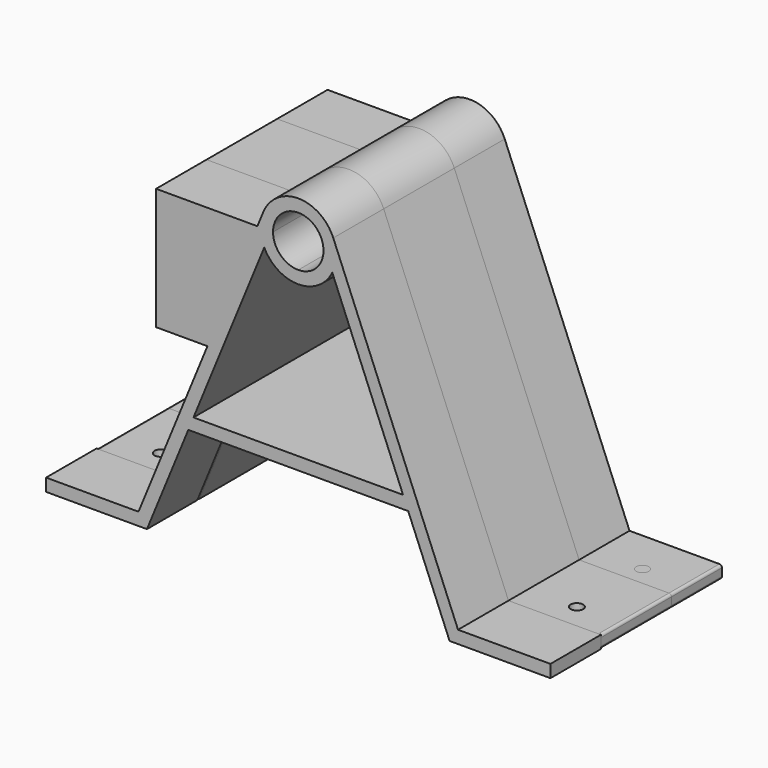
from build123d import *

# Parameters (mm, degrees)
F1_DEPTH   = 60
F2_R       = 2.5
F3_DEPTH   = 5.001
F4_R       = 1
F1_FACE1_R = 10
F5_DEPTH   = 25


with BuildPart() as f1:
    # F0 (on Front) → F1 (new body)
    with BuildSketch(Plane.XZ):
        with BuildLine():
            Line((69.3844701811, 66.6805505753), (86.5065387851, 108.4481678561))
            ThreePointArc((86.5065387851, 108.4481678561), (92.0400214246, 102.28627745), (100, 100))
            Line((100, 100), (100, 105))
            ThreePointArc((100, 105), (92.9289321881, 107.9289321881), (90, 115))
            Line((90, 115), (83.7885603577, 115))
            Line((83.7885603577, 115), (63.980656967, 66.6805505753))
            Line((63.980656967, 66.6805505753), (69.3844701811, 66.6805505753))
        make_face()
        with BuildLine():
            Line((100, 105), (100, 100))
            ThreePointArc((100, 100), (107.9599785754, 102.28627745), (113.4934612149, 108.4481678561))
            Line((113.4934612149, 108.4481678561), (141.5528599106, 40))
            Line((141.5528599106, 40), (58.4471400894, 40))
            Line((58.4471400894, 40), (69.3844701811, 66.6805505753))
            Line((69.3844701811, 66.6805505753), (63.980656967, 66.6805505753))
            Line((63.980656967, 66.6805505753), (36.6458690181, 0))
            Line((36.6458690181, 0), (0, 0))
            Line((0, 0), (0, -5))
            Line((0, -5), (40, -5))
            Line((40, -5), (56.3974578573, 35))
            Line((56.3974578573, 35), (143.6025421427, 35))
            Line((143.6025421427, 35), (160, -5))
            Line((160, -5), (200, -5))
            Line((200, -5), (200, 0))
            Line((200, 0), (163.3541309819, 0))
            Line((163.3541309819, 0), (113.8790881603, 120.6895440801))
            ThreePointArc((113.8790881603, 120.6895440801), (100, 130), (86.1209118397, 120.6895440801))
            Line((86.1209118397, 120.6895440801), (83.7885603577, 115))
            Line((83.7885603577, 115), (90, 115))
            ThreePointArc((90, 115), (100, 125), (110, 115))
            ThreePointArc((110, 115), (107.0710678119, 107.9289321881), (100, 105))
        make_face()
        Polygon((43.611112982, 66.6805505753), (63.980656967, 66.6805505753), (83.7885603577, 115), (43.611112982, 115), align=None)
    extrude(amount=-F1_DEPTH)

    # F2 (on face) → F3 (cut, through all)
    with BuildSketch(Plane.XY):
        with Locations((182.5, 10)):
            Circle(F2_R)
        with Locations((182.5, 42.5)):
            Circle(F2_R)
        with Locations((17.5, 10)):
            Circle(F2_R)
        with Locations((17.5, 42.5)):
            Circle(F2_R)
    extrude(amount=-F3_DEPTH, mode=Mode.SUBTRACT)

    # F4
    f4_edges = [f1.edges().sort_by_distance(p)[0] for p in [
        (200, 30, 0),
        (200, 30, -5),
        (0, 30, 0),
        (0, 30, -5),
        (151.801271, 0, 15),
        (180, 0, -5),
        (20, 0, -5),
        (48.198729, 0, 15),
    ]]
    fillet(f4_edges, radius=F4_R)

    # F0 (on Front) + F1_face1 (on face) → F5 (join)
    with BuildSketch(Plane.XZ):
        with BuildLine():
            Line((69.3844701811, 66.6805505753), (86.5065387851, 108.4481678561))
            ThreePointArc((86.5065387851, 108.4481678561), (92.0400214246, 102.28627745), (100, 100))
            Line((100, 100), (100, 105))
            ThreePointArc((100, 105), (92.9289321881, 107.9289321881), (90, 115))
            Line((90, 115), (83.7885603577, 115))
            Line((83.7885603577, 115), (63.980656967, 66.6805505753))
            Line((63.980656967, 66.6805505753), (69.3844701811, 66.6805505753))
        make_face()
        with BuildLine():
            Line((100, 105), (100, 100))
            ThreePointArc((100, 100), (107.9599785754, 102.28627745), (113.4934612149, 108.4481678561))
            Line((113.4934612149, 108.4481678561), (141.5528599106, 40))
            Line((141.5528599106, 40), (58.4471400894, 40))
            Line((58.4471400894, 40), (69.3844701811, 66.6805505753))
            Line((69.3844701811, 66.6805505753), (63.980656967, 66.6805505753))
            Line((63.980656967, 66.6805505753), (36.6458690181, 0))
            Line((36.6458690181, 0), (0, 0))
            Line((0, 0), (0, -5))
            Line((0, -5), (40, -5))
            Line((40, -5), (56.3974578573, 35))
            Line((56.3974578573, 35), (143.6025421427, 35))
            Line((143.6025421427, 35), (160, -5))
            Line((160, -5), (200, -5))
            Line((200, -5), (200, 0))
            Line((200, 0), (163.3541309819, 0))
            Line((163.3541309819, 0), (113.8790881603, 120.6895440801))
            ThreePointArc((113.8790881603, 120.6895440801), (100, 130), (86.1209118397, 120.6895440801))
            Line((86.1209118397, 120.6895440801), (83.7885603577, 115))
            Line((83.7885603577, 115), (90, 115))
            ThreePointArc((90, 115), (100, 125), (110, 115))
            ThreePointArc((110, 115), (107.0710678119, 107.9289321881), (100, 105))
        make_face()
        Polygon((43.611112982, 66.6805505753), (63.980656967, 66.6805505753), (83.7885603577, 115), (43.611112982, 115), align=None)
    with BuildSketch(Plane(origin=(84.7585463742, 60, 67.9155553521), x_dir=(1, 0, 0), z_dir=(0, 1, 0))):
        with BuildLine():
            Line((-83.7585463742, 67.9155553521), (-48.1126773562, 67.9155553521))
            Line((-48.1126773562, 67.9155553521), (-20.7778894072, 1.2350047768))
            Line((-20.7778894072, 1.2350047768), (-41.1474333922, 1.2350047768))
            Line((-41.1474333922, 1.2350047768), (-41.1474333922, -47.0844446479))
            Line((-41.1474333922, -47.0844446479), (-0.9699860165, -47.0844446479))
            Line((-0.9699860165, -47.0844446479), (1.3623654655, -52.7739887281))
            ThreePointArc((1.3623654655, -52.7739887281), (15.2414536258, -62.0844446479), (29.120541786, -52.7739887281))
            Line((29.120541786, -52.7739887281), (78.5955846077, 67.9155553521))
            Line((78.5955846077, 67.9155553521), (114.2414536258, 67.9155553521))
            ThreePointArc((114.2414536258, 67.9155553521), (114.948560407, 68.2084485709), (115.2414536258, 68.9155553521))
            Line((115.2414536258, 68.9155553521), (115.2414536258, 71.9155553521))
            ThreePointArc((115.2414536258, 71.9155553521), (114.948560407, 72.6226621332), (114.2414536258, 72.9155553521))
            Line((114.2414536258, 72.9155553521), (75.2414536258, 72.9155553521))
            Line((75.2414536258, 72.9155553521), (58.8439957685, 32.9155553521))
            Line((58.8439957685, 32.9155553521), (-28.3610885169, 32.9155553521))
            Line((-28.3610885169, 32.9155553521), (-44.7585463742, 72.9155553521))
            Line((-44.7585463742, 72.9155553521), (-83.7585463742, 72.9155553521))
            ThreePointArc((-83.7585463742, 72.9155553521), (-84.4656531554, 72.6226621332), (-84.7585463742, 71.9155553521))
            Line((-84.7585463742, 71.9155553521), (-84.7585463742, 68.9155553521))
            ThreePointArc((-84.7585463742, 68.9155553521), (-84.4656531554, 68.2084485709), (-83.7585463742, 67.9155553521))
        make_face()
        with BuildLine():
            ThreePointArc((28.7349148407, -40.532612504), (15.2414536258, -32.0844446479), (1.7479924109, -40.532612504))
            Line((1.7479924109, -40.532612504), (-26.3114062848, 27.9155553521))
            Line((-26.3114062848, 27.9155553521), (56.7943135364, 27.9155553521))
            Line((56.7943135364, 27.9155553521), (28.7349148407, -40.532612504))
        make_face(mode=Mode.SUBTRACT)
        with Locations((15.2414536258, -47.0844446479)):
            Circle(F1_FACE1_R, mode=Mode.SUBTRACT)
    extrude(amount=F5_DEPTH, dir=(0, -1, 0))


solid = f1.part
